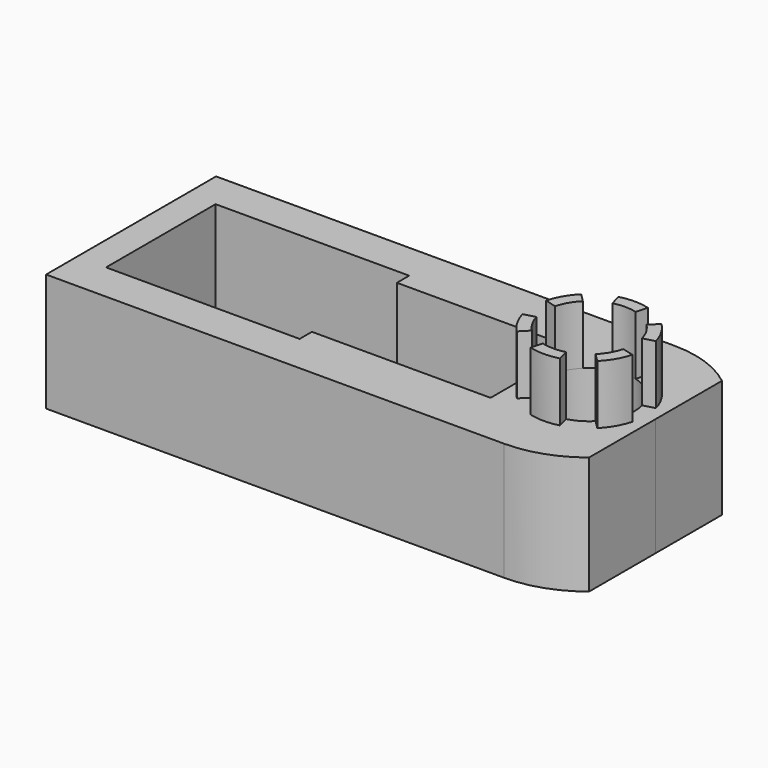
from build123d import *

# Parameters (mm, degrees)
EXTRUDE004_DEPTH                          = 25
EXTRUDE004_ONTO_SKETCH003_PLACEMENT_ANGLE = 15
SKETCH005_W                               = 9
SKETCH005_H                               = 5
EXTRUDE008_DEPTH                          = 40
EXTRUDE005_DEPTH                          = 50
EXTRUDE005_ONTO_SKETCH004_PLACEMENT_ANGLE = 15
TUBE_R                                    = 45
TUBE_R_2                                  = 19.07
TUBE_DEPTH                                = 50
TUBE_PLACEMENT_ANGLE                      = 15
SKETCH007_W                               = 19.05
SKETCH007_H                               = 4.2311699947
EXTRUDE009_DEPTH                          = 50
SKETCH006_R                               = 10
EXTRUDE007_DEPTH                          = 20
BOX001_W                                  = 82
BOX001_H                                  = 58
BOX001_DEPTH                              = 44.4
BOX007_W                                  = 5
BOX007_H                                  = 5
BOX007_DEPTH                              = 44.4
SKETCH001_R                               = 5
EXTRUDE001_DEPTH                          = 4
EXTRUDE002_DEPTH                          = 15
SKETCH_R                                  = 12.3
EXTRUDE_DEPTH                             = 5
BOX_W                                     = 75.7
BOX_H                                     = 45
BOX_DEPTH                                 = 44.4
BOX002_W                                  = 175
BOX002_H                                  = 90
BOX002_DEPTH                              = 50
EXTRUDE010_DEPTH                          = 25


with BuildPart() as fingers:
    # Sketch003 as drawn → Extrude004 (new)
    with BuildSketch(Plane.XY):
        with BuildLine():
            ThreePointArc((12.0375, 20.8495615961), (6.2310685108, 23.2546642679), (0, 24.075))
            Line((0, 24.075), (0, 19.075))
            ThreePointArc((9.5375, 16.5194345772), (4.9369732853, 18.4250351365), (0, 19.075))
            Line((12.0375, 20.8495615961), (9.5375, 16.5194345772))
        make_face()
        with BuildLine():
            ThreePointArc((24.075, 0), (23.2546642679, 6.2310685108), (20.8495615961, 12.0375))
            Line((16.5151044502, 9.535), (20.8495615961, 12.0375))
            ThreePointArc((19.07, 0), (18.4202055073, 4.9356791901), (16.5151044502, 9.535))
            Line((19.07, 0), (24.075, 0))
        make_face()
        with BuildLine():
            ThreePointArc((12.0375, -20.8495615961), (17.0235957571, -17.0235957571), (20.8495615961, -12.0375))
            Line((16.5194345772, -9.5375), (20.8495615961, -12.0375))
            ThreePointArc((9.5375, -16.5194345772), (13.4880618511, -13.4880618511), (16.5194345772, -9.5375))
            Line((9.5375, -16.5194345772), (12.0375, -20.8495615961))
        make_face()
        with BuildLine():
            ThreePointArc((-12.0375, -20.8495615961), (-6.2310685108, -23.2546642679), (0, -24.075))
            Line((0, -19.07), (0, -24.075))
            ThreePointArc((-9.535, -16.5151044502), (-4.9356791901, -18.4202055073), (0, -19.07))
            Line((-12.0375, -20.8495615961), (-9.535, -16.5151044502))
        make_face()
        with BuildLine():
            ThreePointArc((-24.075, 0), (-23.2546642679, -6.2310685108), (-20.8495615961, -12.0375))
            Line((-20.8495615961, -12.0375), (-16.5151044502, -9.535))
            ThreePointArc((-19.07, 0), (-18.4202055073, -4.9356791901), (-16.5151044502, -9.535))
            Line((-19.07, 0), (-24.075, 0))
        make_face()
        with BuildLine():
            ThreePointArc((-12.0375, 20.8495615961), (-17.0235957571, 17.0235957571), (-20.8495615961, 12.0375))
            Line((-16.5194345772, 9.5375), (-20.8495615961, 12.0375))
            ThreePointArc((-9.5375, 16.5194345772), (-13.4880618511, 13.4880618511), (-16.5194345772, 9.5375))
            Line((-12.0375, 20.8495615961), (-9.5375, 16.5194345772))
        make_face()
    extrude(amount=EXTRUDE004_DEPTH)


with BuildPart() as fingers_1:
    # Extrude004 onto Sketch003 placement: moved
    add(fingers.part.moved(Location((120.15, 19, 40))).rotate(Axis((120.15, 19, 40), (0, 0, 1)), EXTRUDE004_ONTO_SKETCH003_PLACEMENT_ANGLE))


with BuildPart() as extrude008:
    # Sketch005 (on Face18 of Cut) → Extrude008 (new body)
    with BuildSketch(Plane.XY):
        with Locations((80.5, 19.37)):
            Rectangle(SKETCH005_W, SKETCH005_H)
    extrude(amount=EXTRUDE008_DEPTH)


with BuildPart() as extrude008_1:
    # Extrude008 placement: moved
    add(extrude008.part.moved(Location((18.29, 0, 0))))


with BuildPart() as obj1:
    # Sketch004 as drawn → Extrude005 (new)
    with BuildSketch(Plane.XY):
        Polygon((27.1135379439, -7.265050596), (36.2167416935, 26.7085683089), (52.5698659325, 22.3267618753), (43.466662183, -11.6468570296), (34.3634584335, -45.6204759345), (18.0103341944, -41.2386695009), align=None)
        Polygon((-33.0905251328, -30.4961824896), (-13.4091441448, 42.9557313208), (-33.625971689, 48.3728139348), (-43.466662183, 11.6468570296), (-53.307352677, -25.0790998756), align=None)
    extrude(amount=-EXTRUDE005_DEPTH)


with BuildPart() as obj1_1:
    # Extrude005 onto Sketch004 placement: moved
    add(obj1.part.moved(Location((120.15, 19, 40))).rotate(Axis((120.15, 19, 40), (0, 0, 1)), EXTRUDE005_ONTO_SKETCH004_PLACEMENT_ANGLE))


with BuildPart() as cut003:
    # Tube → Tube (new body)
    with BuildSketch(Plane.XY):
        Circle(TUBE_R)
        Circle(TUBE_R_2, mode=Mode.SUBTRACT)
    extrude(amount=TUBE_DEPTH)


with BuildPart() as cut003_1:
    # Tube placement: moved
    add(cut003.part.moved(Location((120.15, 19, -10))).rotate(Axis((120.15, 19, -10), (0, 0, 1)), TUBE_PLACEMENT_ANGLE))

    # Cut001: cut obj1
    add(obj1_1.part, mode=Mode.SUBTRACT)

    # Cut003: cut Extrude008
    add(extrude008_1.part, mode=Mode.SUBTRACT)


with BuildPart() as bridgingblocks:
    # Sketch007 → Extrude009 (new body)
    with BuildSketch(Plane.XY.offset(40)):
        with Locations((110.625, -23.8844150026)):
            Rectangle(SKETCH007_W, SKETCH007_H)
        with Locations((110.625, 61.8844150026)):
            Rectangle(SKETCH007_W, SKETCH007_H)
    extrude(amount=-EXTRUDE009_DEPTH)


with BuildPart() as obj2:
    # Sketch006 (on Face20 of Cut) → Extrude007 (new body)
    with BuildSketch(Plane.XY):
        with Locations((-38.7, 19.37)):
            Circle(SKETCH006_R)
        with Locations((40.15, 19.37)):
            Circle(SKETCH006_R)
    extrude(amount=-EXTRUDE007_DEPTH)


with BuildPart() as motorhead:
    # Box001 → Box001 (new body)
    with BuildSketch(Plane(origin=(-82, -9.63, 0), x_dir=(1, 0, 0), z_dir=(0, 0, 1))):
        with Locations((41, 29)):
            Rectangle(BOX001_W, BOX001_H)
    extrude(amount=BOX001_DEPTH)


with BuildPart() as obj3:
    # Box007 → Box007 (new body)
    with BuildSketch(Plane(origin=(75.7, 16.87, 0), x_dir=(1, 0, 0), z_dir=(0, 0, 1))):
        with Locations((2.5, 2.5)):
            Rectangle(BOX007_W, BOX007_H)
    extrude(amount=BOX007_DEPTH)


with BuildPart() as obj4:
    # Sketch001 (on Face3 of Extrude) → Extrude001 (new body)
    with BuildSketch(Plane.XY.offset(49.4)):
        with Locations((-58.7, 20.37)):
            Circle(SKETCH001_R)
    extrude(amount=EXTRUDE001_DEPTH)


with BuildPart() as obj5:
    # Sketch002 (on Face3 of Extrude001) → Extrude002 (new body)
    with BuildSketch(Plane.XY.offset(53.4)):
        with BuildLine():
            Line((-62.7, 23.37), (-62.7, 17.37))
            ThreePointArc((-62.7, 17.37), (-53.7, 20.37), (-62.7, 23.37))
        make_face()
    extrude(amount=EXTRUDE002_DEPTH)


with BuildPart() as motorshaftassembly:
    # Sketch (on Face6 of Box001) → Extrude (new body)
    with BuildSketch(Plane(origin=(-82, -9.63, 44.4), x_dir=(1, 0, 0), z_dir=(0, 0, 1))):
        with Locations((23.3, 30)):
            Circle(SKETCH_R)
    extrude(amount=EXTRUDE_DEPTH)

    # Fusion: union obj4, obj5
    add(obj4.part)
    add(obj5.part)


with BuildPart() as motor:
    # Box → Box (new body)
    with BuildSketch(Plane(origin=(0, -3.13, 0), x_dir=(1, 0, 0), z_dir=(0, 0, 1))):
        with Locations((37.85, 22.5)):
            Rectangle(BOX_W, BOX_H)
    extrude(amount=BOX_DEPTH)

    # Fusion005: union MotorHead, obj3, MotorShaftAssembly
    add(motorhead.part)
    add(obj3.part)
    add(motorshaftassembly.part)


with BuildPart() as motor_1:
    # Fusion005 placement: moved
    add(motor.part.moved(Location((2.3, 0, 0))))


with BuildPart() as fusion006:
    # Box002 → Box002 (new body)
    with BuildSketch(Plane(origin=(-92, -26, -10), x_dir=(1, 0, 0), z_dir=(0, 0, 1))):
        with Locations((87.5, 45)):
            Rectangle(BOX002_W, BOX002_H)
    extrude(amount=BOX002_DEPTH)

    # Cut: cut Motor
    add(motor_1.part, mode=Mode.SUBTRACT)

    # Cut002: cut obj2
    add(obj2.part, mode=Mode.SUBTRACT)


with BuildPart() as fusion006_1:
    # Cut002 placement: moved
    add(fusion006.part.moved(Location((18.1, 0, 0))))

    # Fusion006: union Cut003, BridgingBlocks
    add(cut003_1.part)
    add(bridgingblocks.part)


with BuildPart() as obj6:
    # Sketch008 (on Face26 of Fusion006) → Extrude010 (new body)
    with BuildSketch(Plane.XY.offset(40)):
        with BuildLine():
            ThreePointArc((133.6345263172, 5.5154736828), (136.6651044502, 9.465), (138.5702055073, 14.0643208099))
            Line((138.5702055073, 14.0643208099), (143.3998346388, 12.7702255844))
            ThreePointArc((137.1700602232, 1.9799397768), (140.9952314691, 6.965), (143.3998346388, 12.7702255844))
            Line((133.6345263172, 5.5154736828), (137.1700602232, 1.9799397768))
        make_face()
        with BuildLine():
            ThreePointArc((115.2143208099, 0.5797944927), (120.15, -0.07), (125.0856791901, 0.5797944927))
            Line((125.0856791901, 0.5797944927), (126.3797744156, -4.2498346388))
            ThreePointArc((113.9202255845, -4.2498346388), (120.1500000001, -5.07), (126.3797744156, -4.2498346388))
            Line((115.2143208099, 0.5797944927), (113.9202255845, -4.2498346389))
        make_face()
        with BuildLine():
            ThreePointArc((101.7297944927, 14.0643208099), (103.6348955498, 9.465), (106.6654736828, 5.5154736828))
            Line((106.6654736828, 5.5154736828), (103.1299397768, 1.9799397768))
            ThreePointArc((96.9001653612, 12.7702255844), (99.3047685309, 6.965), (103.1299397768, 1.9799397768))
            Line((101.7297944927, 14.0643208099), (96.9001653612, 12.7702255844))
        make_face()
        with BuildLine():
            ThreePointArc((138.5702055073, 23.9356791901), (136.6651044502, 28.535), (133.6345263172, 32.4845263172))
            Line((133.6345263172, 32.4845263172), (137.1700602232, 36.0200602232))
            ThreePointArc((143.3998346388, 25.2297744156), (140.9952314691, 31.035), (137.1700602232, 36.0200602232))
            Line((138.5702055073, 23.9356791901), (143.3998346388, 25.2297744156))
        make_face()
        with BuildLine():
            ThreePointArc((125.0856791901, 37.4202055073), (120.15, 38.07), (115.2143208099, 37.4202055073))
            Line((115.2143208099, 37.4202055073), (113.9202255844, 42.2498346388))
            ThreePointArc((126.3797744156, 42.2498346388), (120.15, 43.07), (113.9202255844, 42.2498346388))
            Line((125.0856791901, 37.4202055073), (126.3797744156, 42.2498346388))
        make_face()
        with BuildLine():
            ThreePointArc((106.6654736828, 32.4845263172), (103.6348955498, 28.535), (101.7297944927, 23.9356791901))
            Line((101.7297944927, 23.9356791901), (96.9001653612, 25.2297744156))
            ThreePointArc((103.1299397768, 36.0200602232), (99.3047685309, 31.035), (96.9001653612, 25.2297744156))
            Line((106.6654736828, 32.4845263172), (103.1299397768, 36.0200602232))
        make_face()
    extrude(amount=EXTRUDE010_DEPTH)

    # Fusion007: union Fusion006
    add(fusion006_1.part)


solid = Compound([fingers_1.part, obj6.part])
